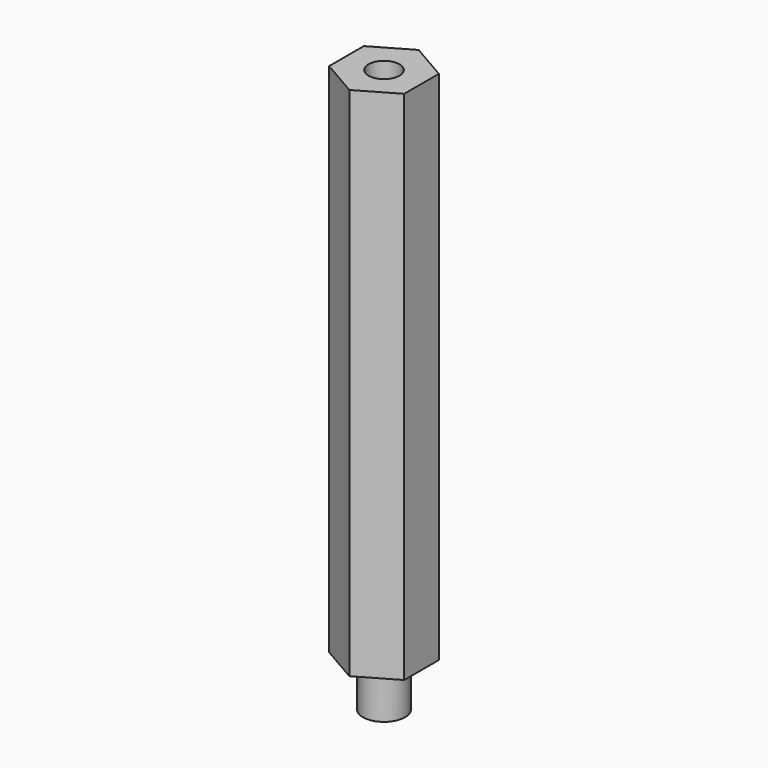
from build123d import *

# Parameters (mm, degrees)
F0_R     = 2.25
F1_DEPTH = 55
F2_DEPTH = 5
F3_R     = 1.65
F4_DEPTH = 10


with BuildPart() as f1:
    # F0 (on Top) → F1 (new body)
    with BuildSketch(Plane.XY):
        Polygon((4, -2.309401), (4, 2.309401), (0, 4.618802), (-4, 2.309401), (-4, -2.309401), (0, -4.618802), align=None)
        Circle(F0_R, mode=Mode.SUBTRACT)
        Circle(F0_R)
    extrude(amount=F1_DEPTH)

    # F0 (on Top) → F2 (join)
    with BuildSketch(Plane.XY):
        Circle(F0_R)
    extrude(amount=-F2_DEPTH)

    # F3 (on face) → F4 (cut)
    with BuildSketch(Plane.XY.offset(55)):
        Circle(F3_R)
    extrude(amount=-F4_DEPTH, mode=Mode.SUBTRACT)


solid = f1.part
